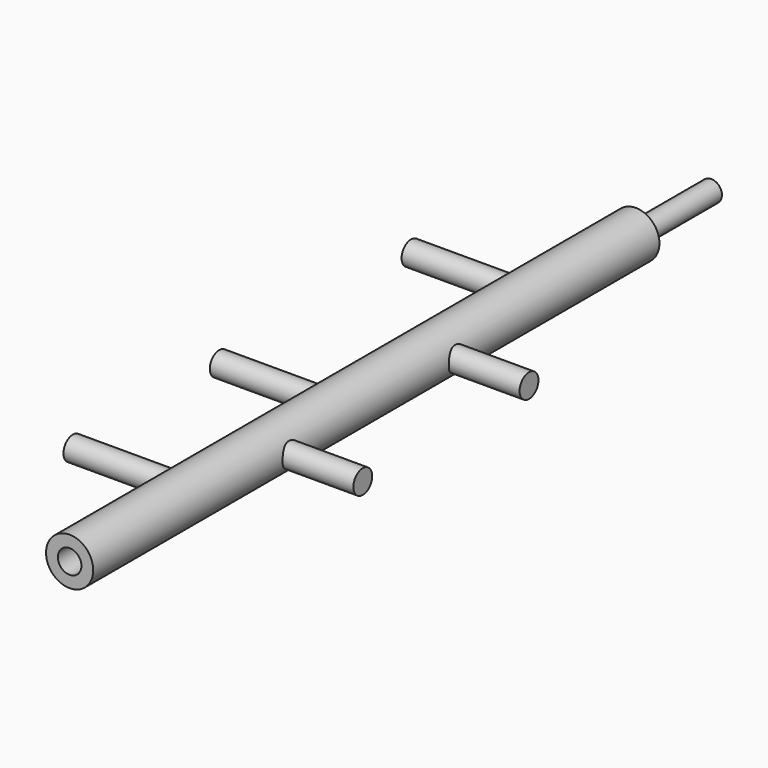
from build123d import *

# Parameters (mm, degrees)
F0_R     = 5
F1_DEPTH = 75
F2_R     = 2.5
F3_DEPTH = 25
F4_R     = 2.5
F5_DEPTH = 20
F6_R     = 2.25
F7_DEPTH = 20
F8_R     = 2.5
F9_DEPTH = 25


with BuildPart() as f1:
    # F0 (on Front) → F1 (new body, symmetric)
    with BuildSketch(Plane.XZ):
        Circle(F0_R)
    extrude(amount=F1_DEPTH, both=True)

    # F2 (on face) → F3 (cut)
    with BuildSketch(Plane.XZ.offset(75)):
        Circle(F2_R)
    extrude(amount=-F3_DEPTH, mode=Mode.SUBTRACT)

    # F4 (on Right) → F5 (join)
    with BuildSketch(Plane.YZ):
        with Locations((21.7011971159, 0)):
            Circle(F4_R)
        with Locations((-22.3350814088, 0)):
            Circle(F4_R)
    extrude(amount=F5_DEPTH)

    # F6 (on face) → F7 (join)
    with BuildSketch(Plane(origin=(0, 75, 0), x_dir=(-1, 0, 0), z_dir=(0, 1, 0))):
        Circle(F6_R)
    extrude(amount=F7_DEPTH)

    # F8 (on Right) → F9 (join)
    with BuildSketch(Plane.YZ):
        with Locations((46.6944500804, 0)):
            Circle(F8_R)
        with Locations((-4.1080172062, 0)):
            Circle(F8_R)
        with Locations((-42.8937412798, 0)):
            Circle(F8_R)
    extrude(amount=-F9_DEPTH)


solid = f1.part
